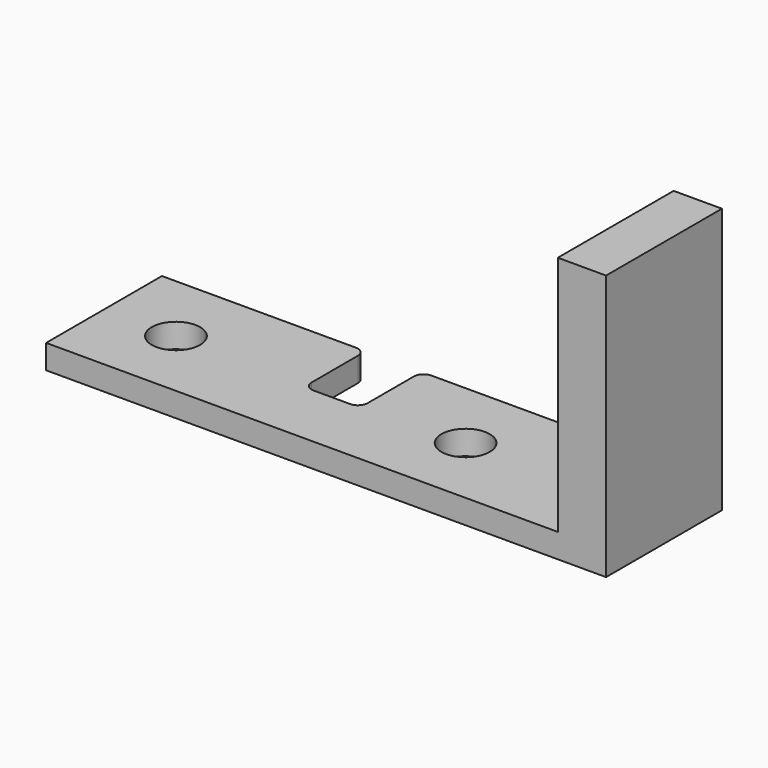
from build123d import *

# Parameters (mm, degrees)
F0_R     = 2.5
F0_W     = 10
F0_H     = 15
F1_DEPTH = 2.5
F3_W     = 5
F3_H     = 15
F4_DEPTH = 25


with BuildPart() as f1:
    # F0 (on Top) → F1 (new body)
    with BuildSketch(Plane.XY):
        with BuildLine():
            Line((0, 15), (0, 0))
            Line((0, 0), (48, 0))
            Line((48, 0), (48, 15))
            Line((48, 15), (27.9, 15))
            ThreePointArc((27.9, 15), (27.192893, 14.707107), (26.9, 14))
            Line((26.9, 14), (26.9, 8))
            ThreePointArc((26.9, 8), (26.607107, 7.292893), (25.9, 7))
            Line((25.9, 7), (22.1, 7))
            ThreePointArc((22.1, 7), (21.392893, 7.292893), (21.1, 8))
            Line((21.1, 8), (21.1, 14))
            ThreePointArc((21.1, 14), (20.807107, 14.707107), (20.1, 15))
            Line((20.1, 15), (0, 15))
        make_face()
        with Locations((7.45, 7.5)):
            Circle(F0_R, mode=Mode.SUBTRACT)
        with Locations((37.45, 7.5)):
            Circle(F0_R, mode=Mode.SUBTRACT)
        with Locations((53, 7.5)):
            Rectangle(F0_W, F0_H)
    extrude(amount=F1_DEPTH)

    # F3 (on offset) → F4 (join)
    with BuildSketch(Plane.XY.offset(2.5)):
        with Locations((55.5, 7.5)):
            Rectangle(F3_W, F3_H)
    extrude(amount=F4_DEPTH)


solid = f1.part
